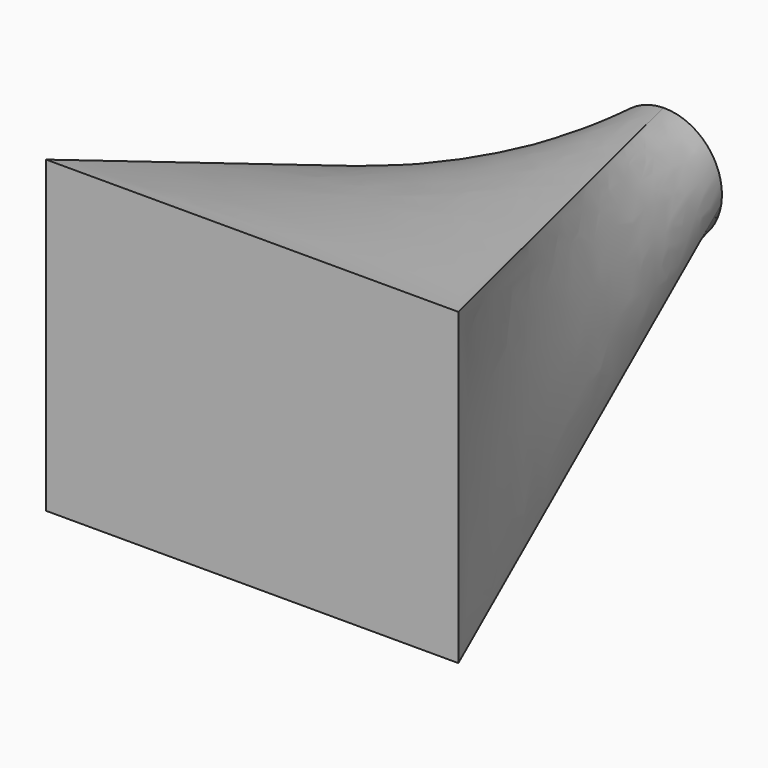
from build123d import *

# Parameters (mm, degrees)
F2_W = 203.2
F2_H = 152.4


with BuildPart() as f3:
    # F1 (on Front) → F3 section 0
    with BuildSketch(Plane.XZ):
        with BuildLine():
            ThreePointArc((27.972206, -4.3029), (21.287792, 18.649106), (-0.585237, 28.295172))
            ThreePointArc((-0.585237, 28.295172), (-22.804907, 16.759937), (-27.179032, -7.890468))
            ThreePointArc((-27.179032, -7.890468), (-18.591949, -21.33773), (-4.095832, -28.003275))
            ThreePointArc((-4.095832, -28.003275), (16.821036, -22.759878), (27.972206, -4.3029))
        make_face()
    # F2 (on offset) → F3 section 1
    with BuildSketch(Plane.XZ.offset(254)):
        Rectangle(F2_W, F2_H)
    loft()


solid = f3.part
